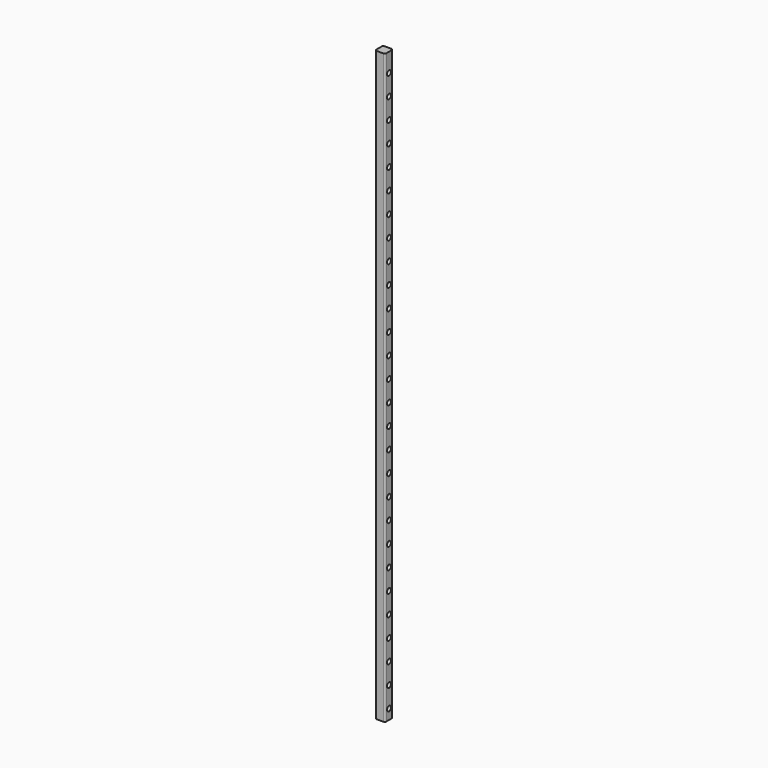
from build123d import *

# Parameters (mm, degrees)
F0_W     = 30
F0_H     = 30
F1_DEPTH = 1760
F2_R     = 7.5
F3_DEPTH = 30.001
F4_R     = 5


with BuildPart() as f1:
    # F0 (on Top) → F1 (new body)
    with BuildSketch(Plane.XY):
        Rectangle(F0_W, F0_H)
    extrude(amount=F1_DEPTH)

    # F2 (on face) → F3 (cut, through all)
    with BuildSketch(Plane.YZ.offset(15)):
        with Locations((0, 30)):
            Circle(F2_R)
        with Locations((0, 92)):
            Circle(F2_R)
        with Locations((0, 154)):
            Circle(F2_R)
        with Locations((0, 216)):
            Circle(F2_R)
        with Locations((0, 278)):
            Circle(F2_R)
        with Locations((0, 340)):
            Circle(F2_R)
        with Locations((0, 402)):
            Circle(F2_R)
        with Locations((0, 464)):
            Circle(F2_R)
        with Locations((0, 526)):
            Circle(F2_R)
        with Locations((0, 588)):
            Circle(F2_R)
        with Locations((0, 650)):
            Circle(F2_R)
        with Locations((0, 712)):
            Circle(F2_R)
        with Locations((0, 774)):
            Circle(F2_R)
        with Locations((0, 836)):
            Circle(F2_R)
        with Locations((0, 898)):
            Circle(F2_R)
        with Locations((0, 960)):
            Circle(F2_R)
        with Locations((0, 1022)):
            Circle(F2_R)
        with Locations((0, 1084)):
            Circle(F2_R)
        with Locations((0, 1146)):
            Circle(F2_R)
        with Locations((0, 1208)):
            Circle(F2_R)
        with Locations((0, 1270)):
            Circle(F2_R)
        with Locations((0, 1332)):
            Circle(F2_R)
        with Locations((0, 1394)):
            Circle(F2_R)
        with Locations((0, 1456)):
            Circle(F2_R)
        with Locations((0, 1518)):
            Circle(F2_R)
        with Locations((0, 1580)):
            Circle(F2_R)
        with Locations((0, 1642)):
            Circle(F2_R)
        with Locations((0, 1704)):
            Circle(F2_R)
    extrude(amount=-F3_DEPTH, mode=Mode.SUBTRACT)

    # F4
    f4_edges = [f1.edges().sort_by_distance(p)[0] for p in [
        (15, -15, 880),
        (-15, -15, 880),
        (15, 15, 880),
        (-15, 15, 880),
    ]]
    fillet(f4_edges, radius=F4_R)


solid = f1.part
